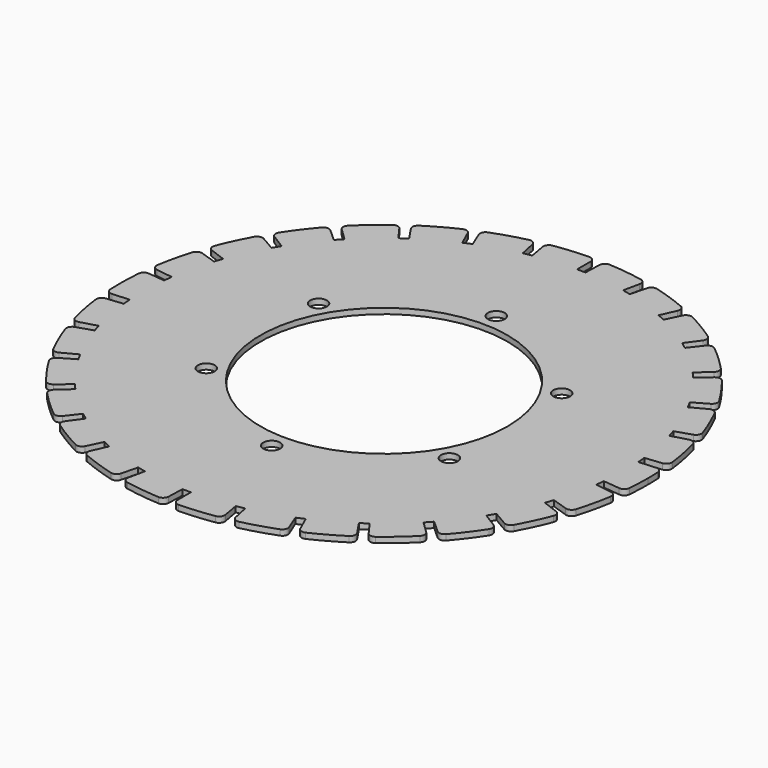
from build123d import *

# Parameters (mm, degrees)
F0_R     = 3
F0_R_2   = 44
F1_DEPTH = 2
F2_R     = 2


with BuildPart() as f1:
    # F0 (on Top) → F1 (new body)
    with BuildSketch(Plane.XY):
        with BuildLine():
            ThreePointArc((93.485058, -9.825676), (93.871176, -4.91958), (94, 0))
            ThreePointArc((94, 0), (93.942738, 3.280553), (93.771021, 6.557109))
            Line((93.771021, 6.557109), (85.790508, 5.999057))
            ThreePointArc((85.790508, 5.999057), (85.672744, 7.495394), (85.528883, 8.989448))
            Line((85.528883, 8.989448), (93.485058, 9.825676))
            ThreePointArc((93.485058, 9.825676), (92.272955, 17.936046), (90.358599, 25.909911))
            Line((90.358599, 25.909911), (82.668506, 23.704813))
            ThreePointArc((82.668506, 23.704813), (82.242209, 25.143967), (81.79086, 26.575462))
            Line((81.79086, 26.575462), (89.399313, 29.047597))
            ThreePointArc((89.399313, 29.047597), (86.527456, 36.728726), (82.997074, 44.130327))
            Line((82.997074, 44.130327), (75.933493, 40.374554))
            ThreePointArc((75.933493, 40.374554), (75.217295, 41.693627), (74.478185, 43))
            Line((74.478185, 43), (81.406388, 47))
            ThreePointArc((81.406388, 47), (77.000292, 53.916185), (72.008178, 60.422035))
            Line((72.008178, 60.422035), (65.879822, 55.279734))
            ThreePointArc((65.879822, 55.279734), (64.905024, 56.421076), (63.910455, 57.545232))
            Line((63.910455, 57.545232), (69.855614, 62.898277))
            ThreePointArc((69.855614, 62.898277), (64.107846, 68.747248), (57.872179, 74.073011))
            Line((57.872179, 74.073011), (52.946887, 67.768925))
            ThreePointArc((52.946887, 67.768925), (51.756092, 68.682654), (50.549532, 69.575462))
            Line((50.549532, 69.575462), (55.251814, 76.047597))
            ThreePointArc((55.251814, 76.047597), (48.413579, 80.573726), (41.206888, 84.48664))
            Line((41.206888, 84.48664), (37.699919, 77.296288))
            ThreePointArc((37.699919, 77.296288), (36.345171, 77.94247), (34.979351, 78.564909))
            Line((34.979351, 78.564909), (38.233244, 85.873273))
            ThreePointArc((38.233244, 85.873273), (30.603407, 88.878746), (22.740658, 91.207798))
            Line((22.740658, 91.207798), (20.805283, 83.445432))
            ThreePointArc((20.805283, 83.445432), (19.345791, 83.795826), (17.880405, 84.120694))
            Line((17.880405, 84.120694), (19.543699, 91.945874))
            ThreePointArc((19.543699, 91.945874), (11.455718, 93.299338), (3.280553, 93.942738))
            Line((3.280553, 93.942738), (3.001357, 85.947611))
            ThreePointArc((3.001357, 85.947611), (1.500907, 85.986902), (0, 86))
            Line((0, 86), (0, 94))
            ThreePointArc((0, 94), (-8.19264, 93.642302), (-16.322929, 92.571929))
            Line((-16.322929, 92.571929), (-14.933743, 84.693467))
            ThreePointArc((-14.933743, 84.693467), (-16.409574, 84.419938), (-17.880405, 84.120694))
            Line((-17.880405, 84.120694), (-19.543699, 91.945874))
            ThreePointArc((-19.543699, 91.945874), (-27.48294, 89.892647), (-35.21302, 87.155282))
            Line((-35.21302, 87.155282), (-32.216167, 79.737811))
            ThreePointArc((-32.216167, 79.737811), (-33.602877, 79.163417), (-34.979351, 78.564909))
            Line((-34.979351, 78.564909), (-38.233244, 85.873273))
            ThreePointArc((-38.233244, 85.873273), (-45.572104, 82.214252), (-52.564133, 77.929532))
            Line((-52.564133, 77.929532), (-48.09059, 71.297231))
            ThreePointArc((-48.09059, 71.297231), (-49.327574, 70.447076), (-50.549532, 69.575462))
            Line((-50.549532, 69.575462), (-55.251814, 76.047597))
            ThreePointArc((-55.251814, 76.047597), (-61.669549, 70.942701), (-67.617941, 65.297887))
            Line((-67.617941, 65.297887), (-61.863223, 59.74062))
            ThreePointArc((-61.863223, 59.74062), (-62.896418, 58.651859), (-63.910455, 57.545232))
            Line((-63.910455, 57.545232), (-69.855614, 62.898277))
            ThreePointArc((-69.855614, 62.898277), (-75.071738, 56.570612), (-79.716521, 49.812411))
            Line((-79.716521, 49.812411), (-72.932136, 45.573057))
            ThreePointArc((-72.932136, 45.573057), (-73.716388, 44.293274), (-74.478185, 43))
            Line((-74.478185, 43), (-81.406388, 47))
            ThreePointArc((-81.406388, 47), (-85.192932, 39.726117), (-88.331106, 32.149893))
            Line((-88.331106, 32.149893), (-80.813565, 29.413732))
            ThreePointArc((-80.813565, 29.413732), (-81.314598, 27.998861), (-81.79086, 26.575462))
            Line((-81.79086, 26.575462), (-89.399313, 29.047597))
            ThreePointArc((-89.399313, 29.047597), (-91.590786, 21.145399), (-93.085198, 13.082271))
            Line((-93.085198, 13.082271), (-85.163054, 11.968887))
            ThreePointArc((-85.163054, 11.968887), (-85.358969, 10.480764), (-85.528883, 8.989448))
            Line((-85.528883, 8.989448), (-93.485058, 9.825676))
            ThreePointArc((-93.485058, 9.825676), (-93.985683, 1.640526), (-93.771021, -6.557109))
            Line((-93.771021, -6.557109), (-85.790508, -5.999057))
            ThreePointArc((-85.790508, -5.999057), (-85.672744, -7.495394), (-85.528883, -8.989448))
            Line((-85.528883, -8.989448), (-93.485058, -9.825676))
            ThreePointArc((-93.485058, -9.825676), (-92.272955, -17.936046), (-90.358599, -25.909911))
            Line((-90.358599, -25.909911), (-82.668506, -23.704813))
            ThreePointArc((-82.668506, -23.704813), (-82.242209, -25.143967), (-81.79086, -26.575462))
            Line((-81.79086, -26.575462), (-89.399313, -29.047597))
            ThreePointArc((-89.399313, -29.047597), (-86.527456, -36.728726), (-82.997074, -44.130327))
            Line((-82.997074, -44.130327), (-75.933493, -40.374554))
            ThreePointArc((-75.933493, -40.374554), (-75.217295, -41.693627), (-74.478185, -43))
            Line((-74.478185, -43), (-81.406388, -47))
            ThreePointArc((-81.406388, -47), (-77.000292, -53.916185), (-72.008178, -60.422035))
            Line((-72.008178, -60.422035), (-65.879822, -55.279734))
            ThreePointArc((-65.879822, -55.279734), (-64.905024, -56.421076), (-63.910455, -57.545232))
            Line((-63.910455, -57.545232), (-69.855614, -62.898277))
            ThreePointArc((-69.855614, -62.898277), (-64.107846, -68.747248), (-57.872179, -74.073011))
            Line((-57.872179, -74.073011), (-52.946887, -67.768925))
            ThreePointArc((-52.946887, -67.768925), (-51.756092, -68.682654), (-50.549532, -69.575462))
            Line((-50.549532, -69.575462), (-55.251814, -76.047597))
            ThreePointArc((-55.251814, -76.047597), (-48.413579, -80.573726), (-41.206888, -84.48664))
            Line((-41.206888, -84.48664), (-37.699919, -77.296288))
            ThreePointArc((-37.699919, -77.296288), (-36.345171, -77.94247), (-34.979351, -78.564909))
            Line((-34.979351, -78.564909), (-38.233244, -85.873273))
            ThreePointArc((-38.233244, -85.873273), (-30.603407, -88.878746), (-22.740658, -91.207798))
            Line((-22.740658, -91.207798), (-20.805283, -83.445432))
            ThreePointArc((-20.805283, -83.445432), (-19.345791, -83.795826), (-17.880405, -84.120694))
            Line((-17.880405, -84.120694), (-19.543699, -91.945874))
            ThreePointArc((-19.543699, -91.945874), (-11.455718, -93.299338), (-3.280553, -93.942738))
            Line((-3.280553, -93.942738), (-3.001357, -85.947611))
            ThreePointArc((-3.001357, -85.947611), (-1.500907, -85.986902), (0, -86))
            Line((0, -86), (0, -94))
            ThreePointArc((0, -94), (8.19264, -93.642302), (16.322929, -92.571929))
            Line((16.322929, -92.571929), (14.933743, -84.693467))
            ThreePointArc((14.933743, -84.693467), (16.409574, -84.419938), (17.880405, -84.120694))
            Line((17.880405, -84.120694), (19.543699, -91.945874))
            ThreePointArc((19.543699, -91.945874), (27.48294, -89.892647), (35.21302, -87.155282))
            Line((35.21302, -87.155282), (32.216167, -79.737811))
            ThreePointArc((32.216167, -79.737811), (33.602877, -79.163417), (34.979351, -78.564909))
            Line((34.979351, -78.564909), (38.233244, -85.873273))
            ThreePointArc((38.233244, -85.873273), (45.572104, -82.214252), (52.564133, -77.929532))
            Line((52.564133, -77.929532), (48.09059, -71.297231))
            ThreePointArc((48.09059, -71.297231), (49.327574, -70.447076), (50.549532, -69.575462))
            Line((50.549532, -69.575462), (55.251814, -76.047597))
            ThreePointArc((55.251814, -76.047597), (61.669549, -70.942701), (67.617941, -65.297887))
            Line((67.617941, -65.297887), (61.863223, -59.74062))
            ThreePointArc((61.863223, -59.74062), (62.896418, -58.651859), (63.910455, -57.545232))
            Line((63.910455, -57.545232), (69.855614, -62.898277))
            ThreePointArc((69.855614, -62.898277), (75.071738, -56.570612), (79.716521, -49.812411))
            Line((79.716521, -49.812411), (72.932136, -45.573057))
            ThreePointArc((72.932136, -45.573057), (73.716388, -44.293274), (74.478185, -43))
            Line((74.478185, -43), (81.406388, -47))
            ThreePointArc((81.406388, -47), (85.192932, -39.726117), (88.331106, -32.149893))
            Line((88.331106, -32.149893), (80.813565, -29.413732))
            ThreePointArc((80.813565, -29.413732), (81.314598, -27.998861), (81.79086, -26.575462))
            Line((81.79086, -26.575462), (89.399313, -29.047597))
            ThreePointArc((89.399313, -29.047597), (91.590786, -21.145399), (93.085198, -13.082271))
            Line((93.085198, -13.082271), (85.163054, -11.968887))
            ThreePointArc((85.163054, -11.968887), (85.358969, -10.480764), (85.528883, -8.989448))
            Line((85.528883, -8.989448), (93.485058, -9.825676))
        make_face()
        with Locations((-43.30127, -25)):
            Circle(F0_R, mode=Mode.SUBTRACT)
        with Locations((0, -50)):
            Circle(F0_R, mode=Mode.SUBTRACT)
        with Locations((43.30127, -25)):
            Circle(F0_R, mode=Mode.SUBTRACT)
        with Locations((-43.30127, 25)):
            Circle(F0_R, mode=Mode.SUBTRACT)
        Circle(F0_R_2, mode=Mode.SUBTRACT)
        with Locations((43.30127, 25)):
            Circle(F0_R, mode=Mode.SUBTRACT)
        with Locations((0, 50)):
            Circle(F0_R, mode=Mode.SUBTRACT)
    extrude(amount=F1_DEPTH)

    # F2
    f2_edges = [f1.edges().sort_by_distance(p)[0] for p in [
        (-67.617941, 65.297887, 1),
        (-55.251814, 76.047597, 1),
        (-52.564133, 77.929532, 1),
        (-38.233244, 85.873273, 1),
        (-35.21302, 87.155282, 1),
        (-19.543699, 91.945874, 1),
        (-16.322929, 92.571929, 1),
        (0, 94, 1),
        (3.280553, 93.942738, 1),
        (19.543699, 91.945874, 1),
        (22.740658, 91.207798, 1),
        (38.233244, 85.873273, 1),
        (41.206888, 84.48664, 1),
        (55.251814, 76.047597, 1),
        (57.872179, 74.073011, 1),
        (69.855614, 62.898277, 1),
        (72.008178, 60.422035, 1),
        (81.406388, 47, 1),
        (82.997074, 44.130327, 1),
        (89.399313, 29.047597, 1),
        (90.358599, 25.909911, 1),
        (93.485058, 9.825676, 1),
        (93.771021, 6.557109, 1),
        (93.485058, -9.825676, 1),
        (93.085198, -13.082271, 1),
        (89.399313, -29.047597, 1),
        (88.331106, -32.149893, 1),
        (81.406388, -47, 1),
        (79.716521, -49.812411, 1),
        (69.855614, -62.898277, 1),
        (67.617941, -65.297887, 1),
        (55.251814, -76.047597, 1),
        (52.564133, -77.929532, 1),
        (38.233244, -85.873273, 1),
        (35.21302, -87.155282, 1),
        (19.543699, -91.945874, 1),
        (16.322929, -92.571929, 1),
        (0, -94, 1),
        (-3.280553, -93.942738, 1),
        (-19.543699, -91.945874, 1),
        (-22.740658, -91.207798, 1),
        (-38.233244, -85.873273, 1),
        (-41.206888, -84.48664, 1),
        (-55.251814, -76.047597, 1),
        (-57.872179, -74.073011, 1),
        (-69.855614, -62.898277, 1),
        (-72.008178, -60.422035, 1),
        (-81.406388, -47, 1),
        (-82.997074, -44.130327, 1),
        (-89.399313, -29.047597, 1),
        (-90.358599, -25.909911, 1),
        (-93.485058, -9.825676, 1),
        (-93.771021, -6.557109, 1),
        (-93.085198, 13.082271, 1),
        (-93.485058, 9.825676, 1),
        (-89.399313, 29.047597, 1),
        (-88.331106, 32.149893, 1),
        (-81.406388, 47, 1),
        (-79.716521, 49.812411, 1),
        (-69.855614, 62.898277, 1),
    ]]
    fillet(f2_edges, radius=F2_R)


solid = f1.part
